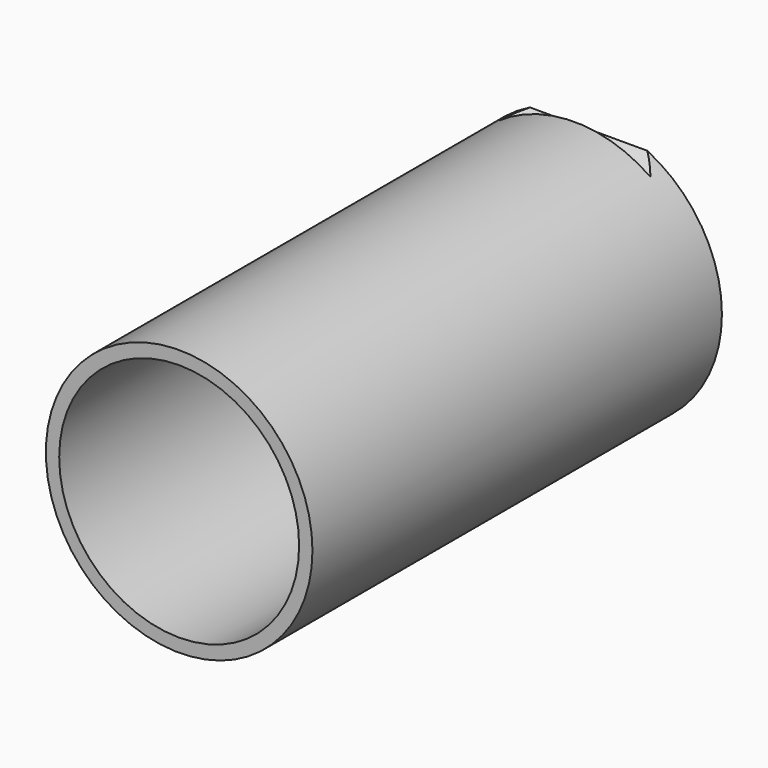
from build123d import *

# Parameters (mm, degrees)
F0_R      = 25
F1_DEPTH  = 90
F2_T      = -2.5
F1_FACE_R = 25
F3_DEPTH  = 6
F5_DEPTH  = 50


with BuildPart() as f1:
    # F0 (on Front) → F1 (new body)
    with BuildSketch(Plane.XZ):
        Circle(F0_R)
    extrude(amount=F1_DEPTH)

    # F2
    f2_openings = [f1.faces().sort_by_distance(p)[0] for p in [
        (0, -90, 0),
    ]]
    offset(amount=F2_T, openings=f2_openings)

    # F1_face (on face) → F3 (join)
    with BuildSketch(Plane(origin=(0, 0, 0), x_dir=(1, 0, 0), z_dir=(0, 1, 0))):
        Circle(F1_FACE_R)
    extrude(amount=F3_DEPTH)

    # F4 (on Right) → F5 (cut, symmetric)
    with BuildSketch(Plane.YZ):
        Polygon((2.675209, 35.80374), (2.675209, 20.530431), (6, 22.45), (6, 35.80374), align=None)
        Polygon((6, -37.240567), (6, -22.45), (2.675209, -20.530431), (2.675209, -37.240567), align=None)
    extrude(amount=F5_DEPTH, both=True, mode=Mode.SUBTRACT)


solid = f1.part
